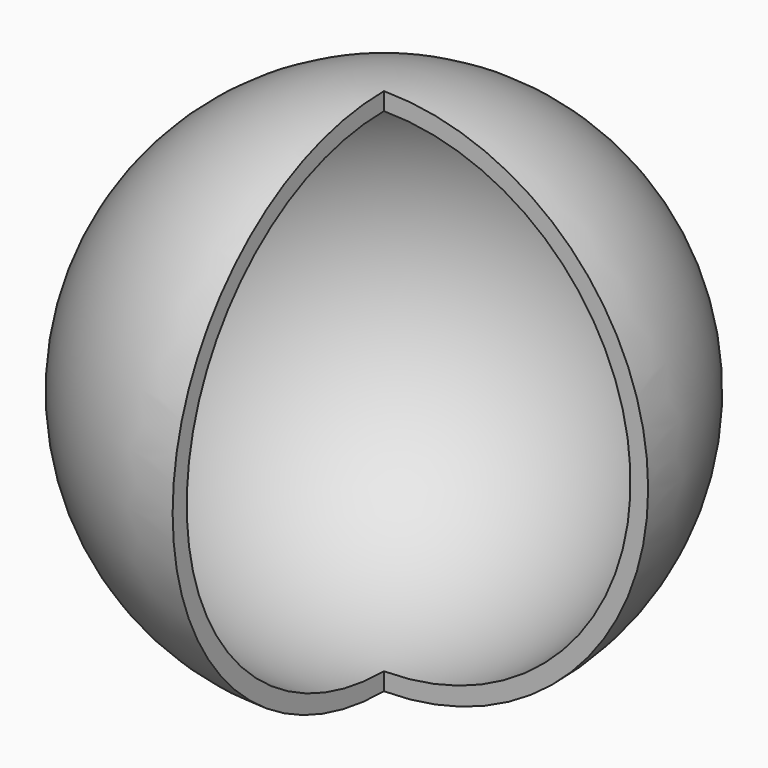
from build123d import *

# Parameters (mm, degrees)
F1_ANGLE = 270


with BuildPart() as f1:
    # F0 (on Front) → F1 (revolve)
    with BuildSketch(Plane.XZ):
        with BuildLine():
            Line((0, -35.56), (0, -38.1))
            ThreePointArc((0, -38.1), (38.1, 0), (0, 38.1))
            Line((0, 38.1), (0, 35.56))
            ThreePointArc((0, 35.56), (35.56, 0), (0, -35.56))
        make_face()
    revolve(axis=Axis((0, 0, 0), (0, 0, 1)), revolution_arc=F1_ANGLE)


solid = f1.part
